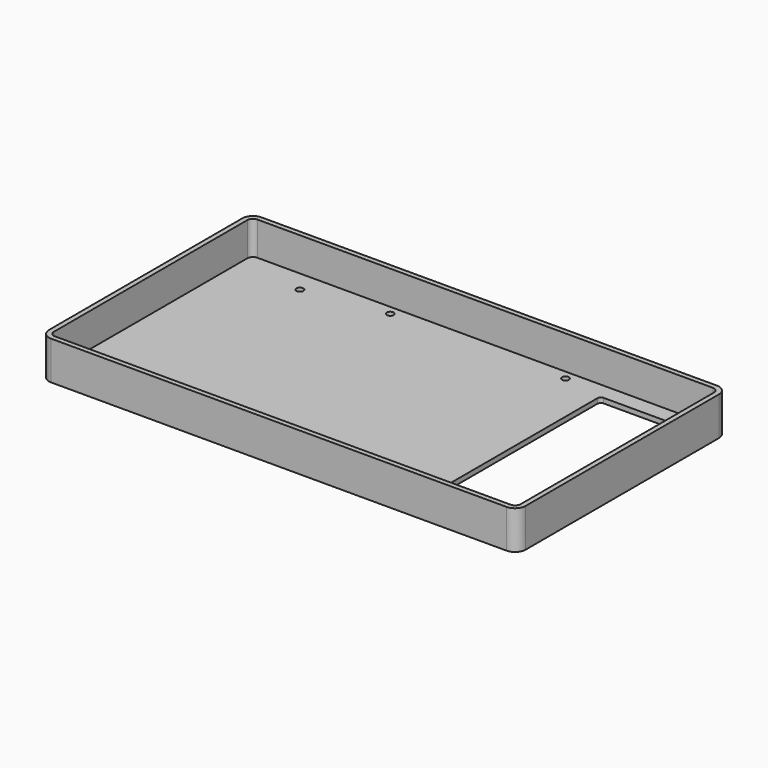
from build123d import *

# Parameters (mm, degrees)
SKETCH_R    = 1
PAD_DEPTH   = 11
THICKNESS_T = -1.4


with BuildPart() as part:
    # Sketch → Pad (new body)
    with BuildSketch(Plane.XY):
        with BuildLine():
            Line((3, 0), (133, 0))
            ThreePointArc((133, 0), (135.12132, 0.87868), (136, 3))
            Line((136, 3), (136, 72))
            ThreePointArc((136, 72), (135.12132, 74.12132), (133, 75))
            Line((133, 75), (3, 75))
            ThreePointArc((3, 75), (0.87868, 74.12132), (0, 72))
            Line((0, 72), (0, 3))
            ThreePointArc((0, 3), (0.87868, 0.87868), (3, 0))
        make_face()
        with Locations((20, 67.486328)):
            Circle(SKETCH_R, mode=Mode.SUBTRACT)
        with Locations((43, 70.986328)):
            Circle(SKETCH_R, mode=Mode.SUBTRACT)
        with Locations((93, 71)):
            Circle(SKETCH_R, mode=Mode.SUBTRACT)
        with Locations((4, 4)):
            Circle(SKETCH_R, mode=Mode.SUBTRACT)
        with BuildLine():
            Line((104.5, 68), (104.5, 3.221195))
            ThreePointArc((104.5, 3.221195), (104.792893, 2.514089), (105.5, 2.221195))
            Line((105.5, 2.221195), (133.5, 2.221195))
            ThreePointArc((133.5, 2.221195), (134.207107, 2.514089), (134.5, 3.221195))
            Line((134.5, 3.221195), (134.5, 68))
            ThreePointArc((134.5, 68), (134.207107, 68.707107), (133.5, 69))
            Line((133.5, 69), (105.5, 69))
            ThreePointArc((105.5, 69), (104.792893, 68.707107), (104.5, 68))
        make_face(mode=Mode.SUBTRACT)
    extrude(amount=PAD_DEPTH)

    # Thickness
    thickness_openings = [part.faces().sort_by_distance(p)[0] for p in [
        (55.431253, 37.938308, 11),
        (104.5, 35.610598, 5.5),
        (104.792893, 68.707107, 5.5),
        (119.5, 69, 5.5),
        (134.207107, 68.707107, 5.5),
        (134.5, 35.610598, 5.5),
        (119.5, 2.221195, 5.5),
        (134.207107, 2.514089, 5.5),
        (104.792893, 2.514089, 5.5),
        (92, 71, 5.5),
        (42, 70.986328, 5.5),
        (19, 67.486328, 5.5),
        (3, 4, 5.5),
    ]]
    offset(amount=THICKNESS_T, openings=thickness_openings)


solid = part.part
